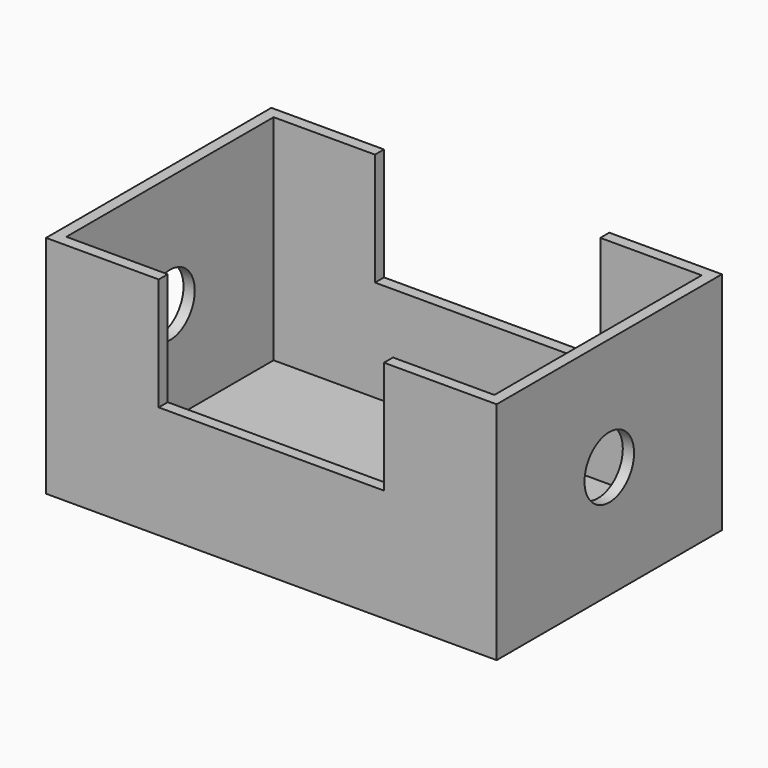
from build123d import *

# Parameters (mm, degrees)
F0_W     = 101.6
F0_H     = 63.5
F1_DEPTH = 50.8
F2_T     = -2.54
F3_R     = 6.985
F4_DEPTH = 101.601
F5_W     = 50.8
F5_H     = 25.4
F6_DEPTH = 63.501


with BuildPart() as f1:
    # F0 (on Top) → F1 (new body)
    with BuildSketch(Plane.XY):
        Rectangle(F0_W, F0_H)
    extrude(amount=F1_DEPTH)

    # F2
    f2_openings = [f1.faces().sort_by_distance(p)[0] for p in [
        (0, 0, 50.8),
    ]]
    offset(amount=F2_T, openings=f2_openings)

    # F3 (on face) → F4 (cut, through all)
    with BuildSketch(Plane.YZ.offset(50.8)):
        with Locations((0, 25.4)):
            Circle(F3_R)
    extrude(amount=-F4_DEPTH, mode=Mode.SUBTRACT)

    # F5 (on face) → F6 (cut, through all)
    with BuildSketch(Plane.XZ.offset(31.75)):
        with Locations((0, 38.1)):
            Rectangle(F5_W, F5_H)
    extrude(amount=-F6_DEPTH, mode=Mode.SUBTRACT)


solid = f1.part
